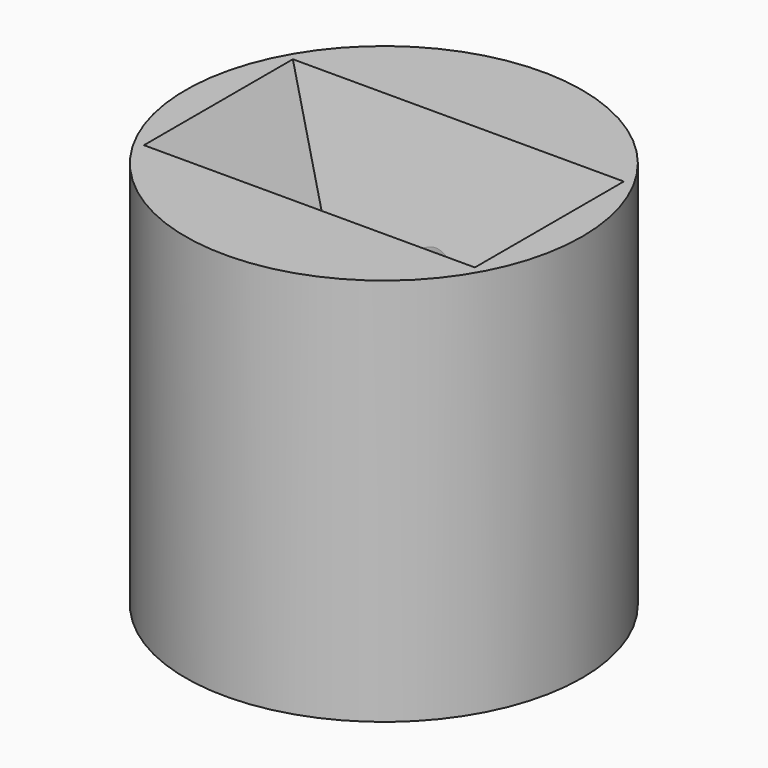
from build123d import *

# Parameters (mm, degrees)
F0_R     = 3.5
F0_R_2   = 3
F1_DEPTH = 17.016
F3_R     = 3.5
F3_R_2   = 1.143
F4_DEPTH = 16
F6_W     = 16
F6_H     = 9
F8_R     = 4.119335
F9_DEPTH = 10.16


with BuildPart() as f1:
    # F0 (on Top) → F1 (new body)
    with BuildSketch(Plane.XY):
        Circle(F0_R)
        Circle(F0_R_2, mode=Mode.SUBTRACT)
    extrude(amount=F1_DEPTH)

    # F3 (on offset) → F4 (join, through all)
    with BuildSketch(Plane.XY.offset(1.016)):
        Circle(F3_R)
        Circle(F3_R_2, mode=Mode.SUBTRACT)
    extrude(amount=F4_DEPTH)

    # F6 (on offset) → F7 section 0
    with BuildSketch(Plane.XY.offset(17.016), mode=Mode.PRIVATE) as f7_s0:
        Rectangle(F6_W, F6_H)
    loft([f7_s0.sketch, Vertex(0, 0, 1.016)], mode=Mode.SUBTRACT)

    # F8 (on offset) → F9 (cut)
    with BuildSketch(Plane.XY.offset(17.016)):
        Circle(F8_R)
    extrude(amount=-F9_DEPTH, mode=Mode.SUBTRACT)


solid = f1.part
